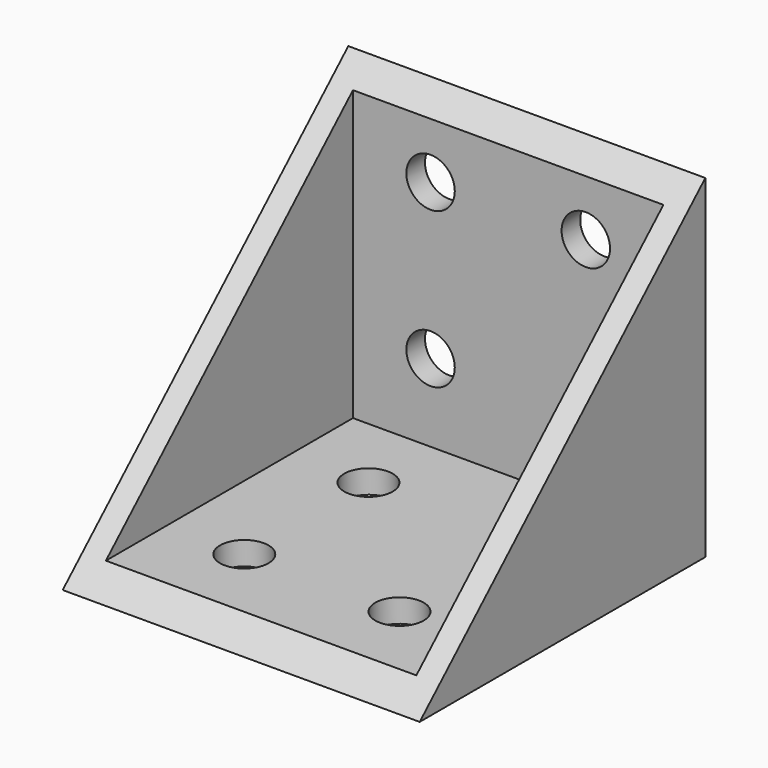
from build123d import *

# Parameters (mm, degrees)
F0_W     = 29.21
F0_H     = 29.21
F1_DEPTH = 27.305
F4_DEPTH = 25.4
F5_DEPTH = 29.21
F6_R     = 1.9812
F8_DEPTH = 25.4
F7_R     = 1.9812
F9_DEPTH = 25.4


with BuildPart() as f1:
    # F0 (on Top) → F1 (new body)
    with BuildSketch(Plane.XY):
        with Locations((-224.190711, 21.995599)):
            Rectangle(F0_W, F0_H)
    extrude(amount=F1_DEPTH)

    # F2 (on face) → F4 (cut)
    with BuildSketch(Plane.XY.offset(27.305)):
        Polygon((-236.890711, 34.695599), (-236.890711, 7.390599), (-211.490711, 7.390599), (-211.490711, 34.695599), (-224.190711, 34.695599), align=None)
    extrude(amount=-F4_DEPTH, mode=Mode.SUBTRACT)

    # F3 (on face) → F5 (cut)
    with BuildSketch(Plane(origin=(-238.795711, 0, 0), x_dir=(0, -1, 0), z_dir=(-1, 0, 0))):
        Polygon((-7.390599, 27.305), (-36.600599, 27.305), (-7.390599, 0), align=None)
    extrude(amount=-F5_DEPTH, mode=Mode.SUBTRACT)

    # F6 (on face) → F8 (cut)
    with BuildSketch(Plane.XY.offset(1.905)):
        with Locations((-230.540711, 28.345599)):
            Circle(F6_R)
        with Locations((-217.840711, 28.345599)):
            Circle(F6_R)
        with Locations((-217.840711, 15.645599)):
            Circle(F6_R)
        with Locations((-230.540711, 15.645599)):
            Circle(F6_R)
    extrude(amount=-F8_DEPTH, mode=Mode.SUBTRACT)

    # F7 (on face) → F9 (cut)
    with BuildSketch(Plane.XZ.offset(-34.695599)):
        with Locations((-230.540711, 8.255)):
            Circle(F7_R)
        with Locations((-230.540711, 20.955)):
            Circle(F7_R)
        with Locations((-217.840711, 20.955)):
            Circle(F7_R)
        with Locations((-217.840711, 8.255)):
            Circle(F7_R)
    extrude(amount=-F9_DEPTH, mode=Mode.SUBTRACT)


solid = f1.part
